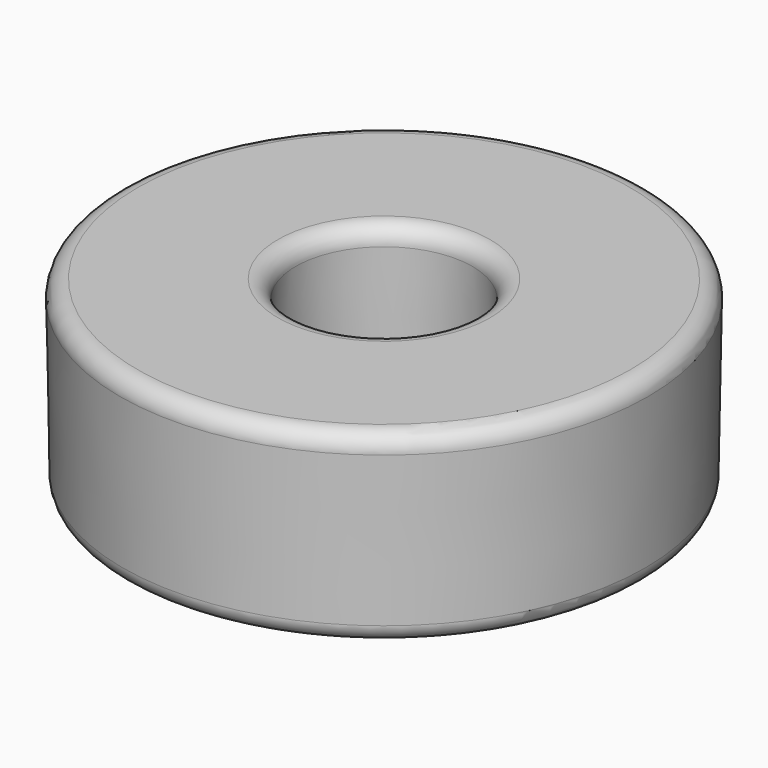
from build123d import *

# Parameters (mm, degrees)
F0_R     = 7.5
F0_R_2   = 2.5
F1_DEPTH = 5.3
F1_TAPER = 1
F2_R     = 0.5


with BuildPart() as f1:
    # F0 (on Top) → F1 (new body)
    with BuildSketch(Plane.XY):
        Circle(F0_R)
        Circle(F0_R_2, mode=Mode.SUBTRACT)
    extrude(amount=-F1_DEPTH, taper=F1_TAPER)

    # F2
    f2_edges = [f1.edges().sort_by_distance(p)[0] for p in [
        (-7.407488, 0, -5.3),
        (-2.592512, 0, -5.3),
        (-7.5, 0, 0),
        (-2.5, 0, 0),
    ]]
    fillet(f2_edges, radius=F2_R)


solid = f1.part
